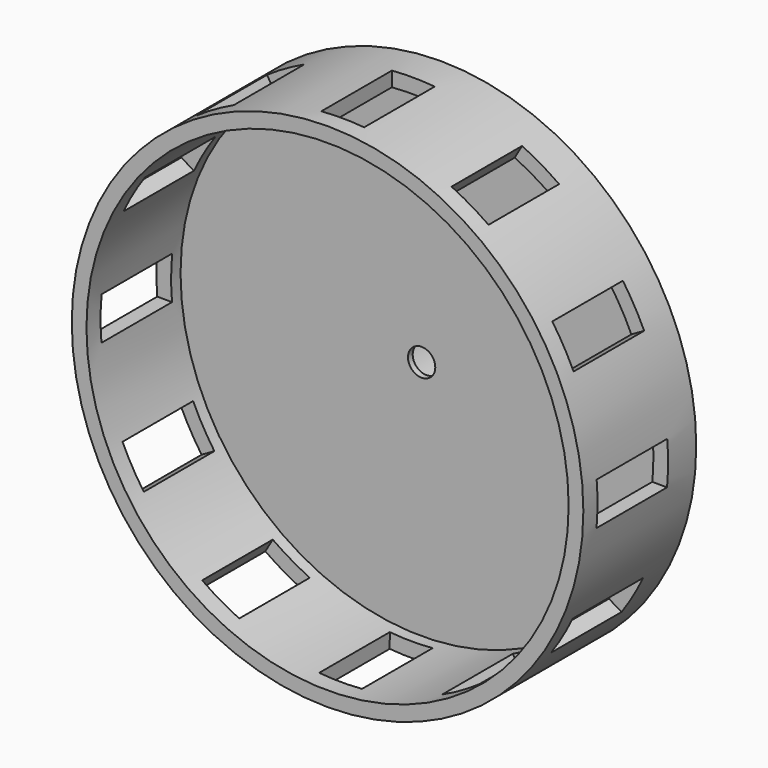
from build123d import *

# Parameters (mm, degrees)
F0_R      = 52.07
F1_DEPTH  = 5.08
F0_R_2    = 55.245
F2_DEPTH  = 30.48
F4_DEPTH  = 21.59
F5_W      = 9.2520020868
F5_H      = 19.05
F6_DEPTH  = 50.8
F7_W      = 9.2520020868
F7_H      = 19.05
F8_DEPTH  = 50.8
F9_W      = 9.2520020868
F9_H      = 19.05
F10_DEPTH = 50.8
F11_W     = 19.05
F11_H     = 9.2520020868
F12_DEPTH = 50.8
F13_W     = 19.05
F13_H     = 9.2520020868
F14_DEPTH = 50.8
F15_W     = 19.05
F15_H     = 9.2520020868
F16_DEPTH = 50.8
F17_W     = 9.2520020868
F17_H     = 19.05
F18_DEPTH = 50.8
F19_W     = 9.2520020868
F19_H     = 19.05
F20_DEPTH = 50.8
F21_W     = 9.2520020868
F21_H     = 19.05
F22_DEPTH = 50.8
F23_W     = 19.05
F23_H     = 9.2520020868
F24_DEPTH = 50.8
F25_W     = 19.05
F25_H     = 9.2520020868
F26_DEPTH = 50.8
F27_W     = 19.05
F27_H     = 9.2520020868
F28_DEPTH = 50.8
F29_W     = 40.64
F29_H     = 38.1
F30_DEPTH = 33.02
F31_DEPTH = 21.59
F33_R     = 2.9464
F34_DEPTH = 1.6256
F32_R     = 11.811
F35_DEPTH = 36.83
F36_W     = 40.64
F36_H     = 38.1
F37_DEPTH = 33.02


with BuildPart() as f1:
    # F0 (on Front) → F1 (new body)
    with BuildSketch(Plane.XZ):
        Circle(F0_R)
    extrude(amount=F1_DEPTH)

    # F0 (on Front) → F2 (join)
    with BuildSketch(Plane.XZ):
        Circle(F0_R_2)
        Circle(F0_R, mode=Mode.SUBTRACT)
    extrude(amount=F2_DEPTH)

    # F3 (on face) → F4 (join)
    with BuildSketch(Plane.XZ.offset(5.08)):
        Polygon((4.5521322669, -17.2840948262), (12.5843095976, -12.6923990675), (17.2445313344, -4.6997852286), (17.2840948262, 4.5521322669), (12.6923990675, 12.5843095976), (4.6997852286, 17.2445313344), (-4.5521322669, 17.2840948262), (-12.5843095976, 12.6923990675), (-17.2445313344, 4.6997852286), (-17.2840948262, -4.5521322669), (-12.6923990675, -12.5843095976), (-4.6997852286, -17.2445313344), align=None)
    extrude(amount=F4_DEPTH)

    # F5 (on face) → F6 (cut)
    with BuildSketch(Plane(origin=(8.696092148, 0, 14.914420466), x_dir=(0.8638793813, 0, -0.5036987339), z_dir=(0.5036987339, 0, 0.8638793813))):
        with Locations((0, -17.145)):
            Rectangle(F5_W, F5_H)
    extrude(amount=F6_DEPTH, mode=Mode.SUBTRACT)

    # F7 (on face) → F8 (cut)
    with BuildSketch(Plane(origin=(0.0738264808, 0, 17.2643130803), x_dir=(0.999990857, 0, -0.0042762087), z_dir=(0.0042762087, 0, 0.999990857))):
        with Locations((0, -17.145)):
            Rectangle(F7_W, F7_H)
    extrude(amount=F8_DEPTH, mode=Mode.SUBTRACT)

    # F9 (on face) → F10 (cut)
    with BuildSketch(Plane(origin=(-8.5682209323, 0, 14.9882469469), x_dir=(0.86815559, 0, 0.4962921231), z_dir=(-0.4962921231, 0, 0.86815559))):
        with Locations((0, -17.145)):
            Rectangle(F9_W, F9_H)
    extrude(amount=F10_DEPTH, mode=Mode.SUBTRACT)

    # F11 (on face) → F12 (cut)
    with BuildSketch(Plane(origin=(-14.914420466, 0, 8.696092148), x_dir=(0, -1, 0), z_dir=(-0.8638793813, 0, 0.5036987339))):
        with Locations((17.145, 0)):
            Rectangle(F11_W, F11_H)
    extrude(amount=F12_DEPTH, mode=Mode.SUBTRACT)

    # F13 (on face) → F14 (cut)
    with BuildSketch(Plane(origin=(-17.2643130803, 0, 0.0738264808), x_dir=(0, -1, 0), z_dir=(-0.999990857, 0, 0.0042762087))):
        with Locations((17.145, 0)):
            Rectangle(F13_W, F13_H)
    extrude(amount=F14_DEPTH, mode=Mode.SUBTRACT)

    # F15 (on face) → F16 (cut)
    with BuildSketch(Plane(origin=(-14.9882469469, 0, -8.5682209323), x_dir=(0, -1, 0), z_dir=(-0.86815559, 0, -0.4962921231))):
        with Locations((17.145, 0)):
            Rectangle(F15_W, F15_H)
    extrude(amount=F16_DEPTH, mode=Mode.SUBTRACT)

    # F17 (on face) → F18 (cut)
    with BuildSketch(Plane(origin=(-8.696092148, 0, -14.914420466), x_dir=(0.8638793813, 0, -0.5036987339), z_dir=(-0.5036987339, 0, -0.8638793813))):
        with Locations((0, 17.145)):
            Rectangle(F17_W, F17_H)
    extrude(amount=F18_DEPTH, mode=Mode.SUBTRACT)

    # F19 (on face) → F20 (cut)
    with BuildSketch(Plane(origin=(-0.0738264808, 0, -17.2643130803), x_dir=(0.999990857, 0, -0.0042762087), z_dir=(-0.0042762087, 0, -0.999990857))):
        with Locations((0, 17.145)):
            Rectangle(F19_W, F19_H)
    extrude(amount=F20_DEPTH, mode=Mode.SUBTRACT)

    # F21 (on face) → F22 (cut)
    with BuildSketch(Plane(origin=(8.5682209323, 0, -14.9882469469), x_dir=(0.86815559, 0, 0.4962921231), z_dir=(0.4962921231, 0, -0.86815559))):
        with Locations((0, 17.145)):
            Rectangle(F21_W, F21_H)
    extrude(amount=F22_DEPTH, mode=Mode.SUBTRACT)

    # F23 (on face) → F24 (cut)
    with BuildSketch(Plane(origin=(14.914420466, 0, -8.696092148), x_dir=(0, 1, 0), z_dir=(0.8638793813, 0, -0.5036987339))):
        with Locations((-17.145, 0)):
            Rectangle(F23_W, F23_H)
    extrude(amount=F24_DEPTH, mode=Mode.SUBTRACT)

    # F25 (on face) → F26 (cut)
    with BuildSketch(Plane(origin=(17.2643130803, 0, -0.0738264808), x_dir=(0, 1, 0), z_dir=(0.999990857, 0, -0.0042762087))):
        with Locations((-17.145, 0)):
            Rectangle(F25_W, F25_H)
    extrude(amount=F26_DEPTH, mode=Mode.SUBTRACT)

    # F27 (on face) → F28 (cut)
    with BuildSketch(Plane(origin=(14.9882469469, 0, 8.5682209323), x_dir=(0, 1, 0), z_dir=(0.86815559, 0, 0.4962921231))):
        with Locations((-17.145, 0)):
            Rectangle(F27_W, F27_H)
    extrude(amount=F28_DEPTH, mode=Mode.SUBTRACT)

    # F29 (on face) → F30 (join)
    with BuildSketch(Plane.XZ):
        with Locations((0.0789208158, 0.021902828)):
            Rectangle(F29_W, F29_H)
    extrude(amount=-F30_DEPTH)

    # F31 (cut): a face of the model
    f31_faces = [f1.faces().sort_by_distance(p)[0] for p in [
        (0, -26.67, 0),
    ]]
    extrude(f31_faces, amount=-F31_DEPTH, mode=Mode.SUBTRACT)

    # F33 (on face) → F34 (cut)
    with BuildSketch(Plane.XZ.offset(5.08)):
        Circle(F33_R)
    extrude(amount=-F34_DEPTH, mode=Mode.SUBTRACT)

    # F32 (on face) → F35 (cut)
    with BuildSketch(Plane(origin=(0, 33.02, 0), x_dir=(-1, 0, 0), z_dir=(0, 1, 0))):
        Circle(F32_R)
    extrude(amount=-F35_DEPTH, mode=Mode.SUBTRACT)

    # F36 (on face) → F37 (cut)
    with BuildSketch(Plane(origin=(0, 33.02, 0), x_dir=(-1, 0, 0), z_dir=(0, 1, 0))):
        with Locations((-0.0789208158, 0.021902828)):
            Rectangle(F36_W, F36_H)
        Polygon((17.6803887808, 0), (8.8401943904, -15.311665833), (-8.8401943904, -15.311665833), (-17.6803887808, 0), (-8.8401943904, 15.311665833), (8.8401943904, 15.311665833), align=None, mode=Mode.SUBTRACT)
    extrude(amount=-F37_DEPTH, mode=Mode.SUBTRACT)


solid = f1.part
